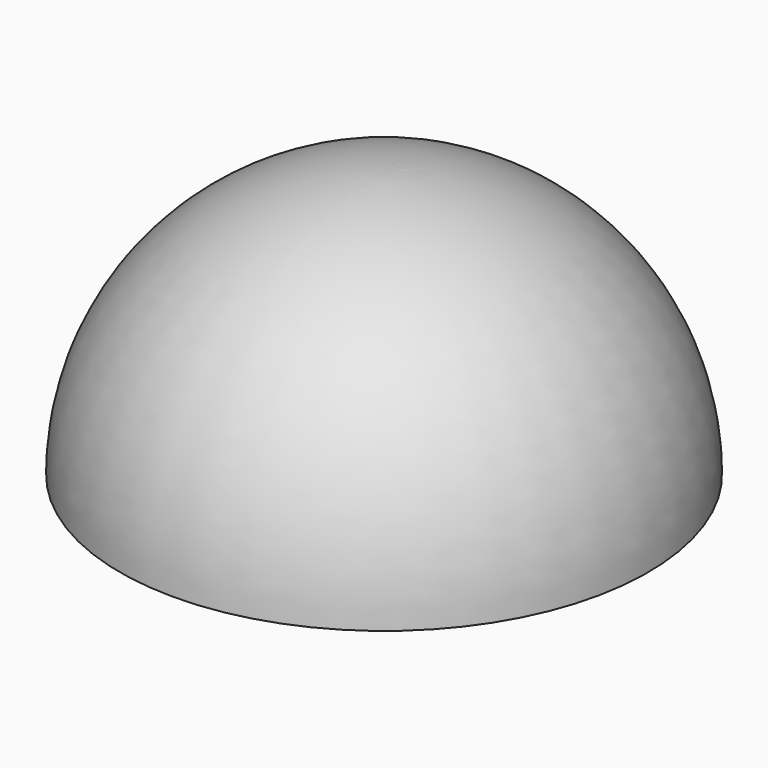
from build123d import *


with BuildPart() as f1:
    # F0 (on Right) → F1 (revolve)
    with BuildSketch(Plane.YZ):
        with BuildLine():
            Line((-12.7, 0), (0, 0))
            Line((0, 0), (0, 12.7))
            ThreePointArc((0, 12.7), (-8.980256, 8.980256), (-12.7, 0))
        make_face()
    revolve(axis=Axis((0, 0, 6.35), (0, 0, 1)))


solid = f1.part
